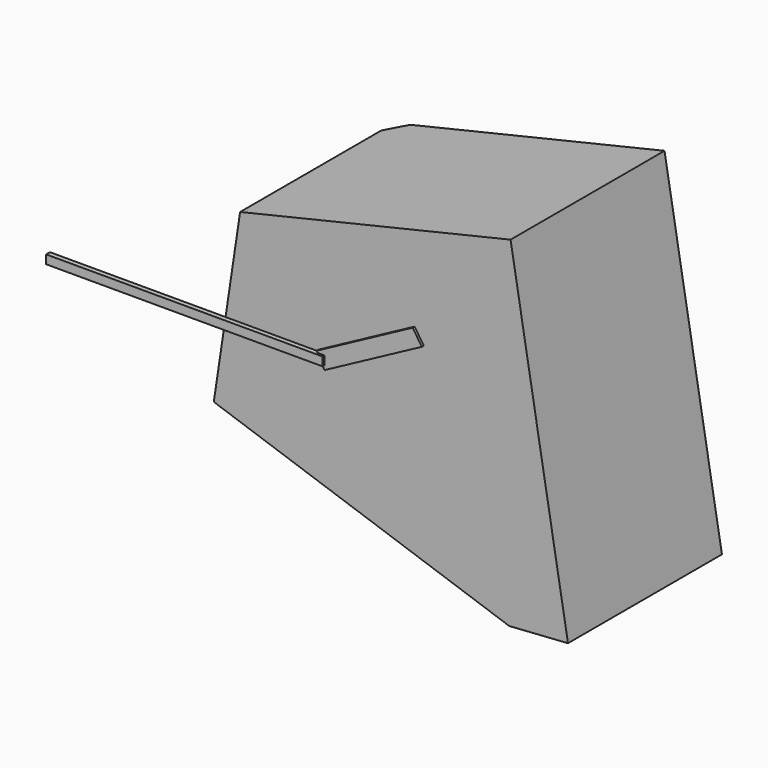
from build123d import *

# Parameters (mm, degrees)
SKETCH001_W  = 115
SKETCH001_H  = 3.61845
PAD001_DEPTH = 2
PAD003_DEPTH = 1
SKETCH002_W  = 485.407379
SKETCH002_H  = 295.218536
PAD002_DEPTH = 18
PAD_DEPTH    = 80


with BuildPart() as mins:
    # Sketch001 → Pad001 (new body)
    with BuildSketch(Plane.XZ.offset(100)):
        with Locations((-36.29836, -0.254388)):
            Rectangle(SKETCH001_W, SKETCH001_H)
    extrude(amount=PAD001_DEPTH)


with BuildPart() as hours:
    # Sketch003 → Pad003 (new body)
    with BuildSketch(Plane.XZ.offset(100)):
        Polygon((17.86513, 2.189523), (21.14066, -3.830374), (61.5979, 17.858953), (57.791188, 23.613267), align=None)
    extrude(amount=PAD003_DEPTH)


with BuildPart() as wall:
    # Sketch002 → Pad002 (new body)
    with BuildSketch(Plane(origin=(0, 0, 0), x_dir=(0.707107, 0.707107, 0), z_dir=(0.707107, -0.707107, 0))):
        with Locations((9.658203, 3.703232)):
            Rectangle(SKETCH002_W, SKETCH002_H)
    extrude(amount=-PAD002_DEPTH)


with BuildPart() as wall_1:
    # Body placement: moved
    add(wall.part.moved(Location((0, -3, 0))))


with BuildPart() as cut:
    # Sketch → Pad (new body)
    with BuildSketch(Plane.XZ):
        Polygon((-18.735967, 38.644798), (93.691037, 65.066546), (117.549288, -74.874246), (93.133817, -76.506926), (-29.674964, -34.420876), align=None)
    extrude(amount=PAD_DEPTH)


with BuildPart() as cut_1:
    # Body001 placement: moved
    add(cut.part.moved(Location((0, -15, 0))))

    # Cut: cut wall
    add(wall_1.part, mode=Mode.SUBTRACT)


solid = Compound([mins.part, hours.part, cut_1.part])
